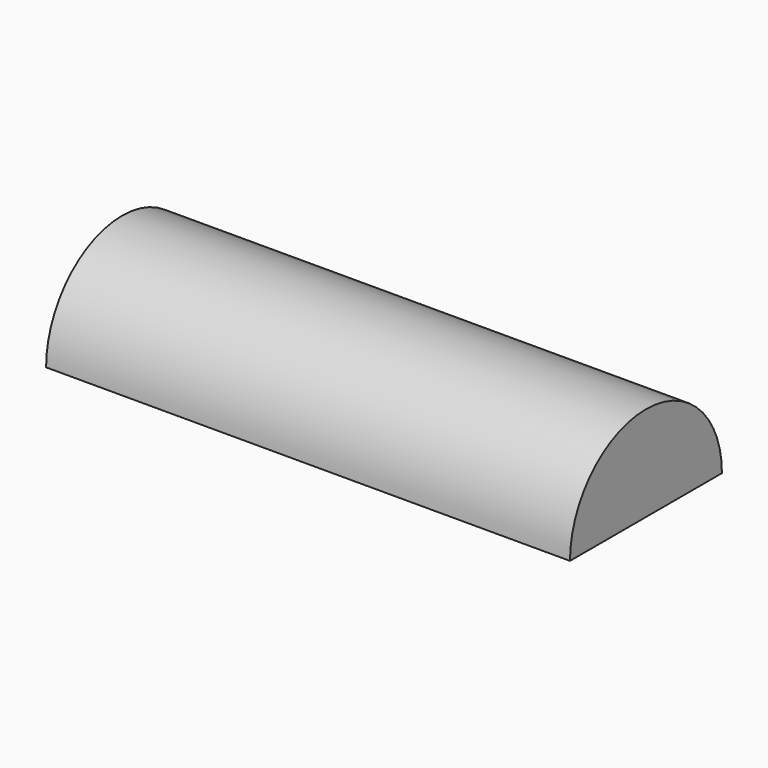
from build123d import *

# Parameters (mm, degrees)
F1_DEPTH = 16


with BuildPart() as f1:
    # F0 (on Right) → F1 (new body)
    with BuildSketch(Plane.YZ):
        with BuildLine():
            Line((-2.9, 0), (2.9, 0))
            ThreePointArc((2.9, 0), (0, 2.9), (-2.9, 0))
        make_face()
    extrude(amount=F1_DEPTH)


solid = f1.part
